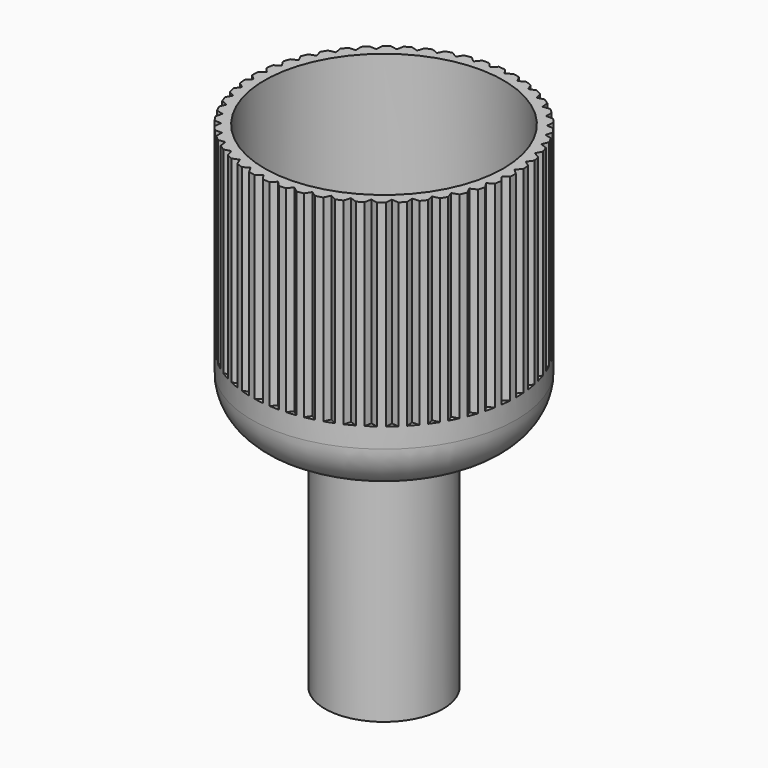
from build123d import *

# Parameters (mm, degrees)
F0_R     = 3.2385
F0_R_2   = 2.667
F1_DEPTH = 12.7
F2_R     = 7.2517
F3_DEPTH = 14.4272
F4_R     = 2.54
F5_R     = 6.5405
F6_DEPTH = 11.176
F8_DEPTH = 10.795


with BuildPart() as f1:
    # F0 (on Top) → F1 (new body)
    with BuildSketch(Plane.XY):
        Circle(F0_R)
        Circle(F0_R_2, mode=Mode.SUBTRACT)
    extrude(amount=F1_DEPTH)

    # F2 (on face) → F3 (join)
    with BuildSketch(Plane.XY.offset(12.7)):
        Circle(F2_R)
    extrude(amount=F3_DEPTH)

    # F4
    f4_edges = [f1.edges().sort_by_distance(p)[0] for p in [
        (-7.2517, 0, 12.7),
    ]]
    fillet(f4_edges, radius=F4_R)

    # F5 (on face) → F6 (cut)
    with BuildSketch(Plane.XY.offset(27.1272)):
        Circle(F5_R)
    extrude(amount=-F6_DEPTH, mode=Mode.SUBTRACT)

    # F7 (on face) → F8 (cut)
    with BuildSketch(Plane.XY.offset(27.1272)):
        with BuildLine():
            ThreePointArc((5.3146863935, 4.9336863935), (5.1277262451, 5.1277262451), (4.9336863935, 5.3146863935))
            Line((4.9336863935, 5.3146863935), (4.9336863935, 4.9336863935))
            Line((4.9336863935, 4.9336863935), (5.3146863935, 4.9336863935))
        make_face()
        with BuildLine():
            ThreePointArc((5.8911333729, 4.2286759716), (5.7299671032, 4.444618081), (5.5608896337, 4.6544236347))
            Line((5.5608896337, 4.6544236347), (5.5131376717, 4.2764279335))
            Line((5.5131376717, 4.2764279335), (5.8911333729, 4.2286759716))
        make_face()
        with BuildLine():
            ThreePointArc((4.6544236347, 5.5608896337), (4.444618081, 5.7299671032), (4.2286759716, 5.8911333729))
            Line((4.2286759716, 5.8911333729), (4.2764279335, 5.5131376717))
            Line((4.2764279335, 5.5131376717), (4.6544236347, 5.5608896337))
        make_face()
        with BuildLine():
            ThreePointArc((3.9207578349, 6.1003943225), (3.6914156346, 6.2418429572), (3.4569768035, 6.3746736599))
            Line((3.4569768035, 6.3746736599), (3.5517276505, 6.0056434755))
            Line((3.5517276505, 6.0056434755), (3.9207578349, 6.1003943225))
        make_face()
        with BuildLine():
            ThreePointArc((3.1252593418, 6.5436921486), (2.8799973585, 6.6552812191), (2.6307590461, 6.7576815352))
            Line((2.6307590461, 6.7576815352), (2.7710145007, 6.4034366941))
            Line((2.7710145007, 6.4034366941), (3.1252593418, 6.5436921486))
        make_face()
        with BuildLine():
            ThreePointArc((2.280473642, 6.8837920406), (2.0231598037, 6.9637617204), (1.7630526471, 7.0341167359))
            Line((1.7630526471, 7.0341167359), (1.9466007969, 6.7002438908))
            Line((1.9466007969, 6.7002438908), (2.280473642, 6.8837920406))
        make_face()
        with BuildLine():
            ThreePointArc((1.3997235106, 7.1153304199), (1.1344158101, 7.1624195395), (0.8675418546, 7.1996197136))
            Line((0.8675418546, 7.1996197136), (1.0914880357, 6.8913842387))
            Line((1.0914880357, 6.8913842387), (1.3997235106, 7.1153304199))
        make_face()
        with BuildLine():
            ThreePointArc((0.4968989032, 7.2346557879), (0.2277814016, 7.2481217238), (-0.0416505912, 7.2515803876))
            Line((-0.0416505912, 7.2515803876), (0.2191618562, 6.9738433406))
            Line((0.2191618562, 6.9738433406), (0.4968989032, 7.2346557879))
        make_face()
        with BuildLine():
            ThreePointArc((-0.4137620967, 7.2398863125), (-0.6824452557, 7.2195166987), (-0.9501861823, 7.1891793071))
            Line((-0.9501861823, 7.1891793071), (-0.6566206368, 6.946320767))
            Line((-0.6566206368, 6.946320767), (-0.4137620967, 7.2398863125))
        make_face()
        with BuildLine():
            ThreePointArc((-1.3178978211, 7.1309395049), (-1.5819093436, 7.0770555826), (-1.8437367696, 7.0134005742))
            Line((-1.8437367696, 7.0134005742), (-1.52204783, 6.8092505653))
            Line((-1.52204783, 6.8092505653), (-1.3178978211, 7.1309395049))
        make_face()
        with BuildLine():
            ThreePointArc((-2.2012495097, 6.9095335216), (-2.4564257762, 6.8229850722), (-2.7082105268, 6.7270163247))
            Line((-2.7082105268, 6.7270163247), (-2.3634714198, 6.5647944146))
            Line((-2.3634714198, 6.5647944146), (-2.2012495097, 6.9095335216))
        make_face()
        with BuildLine():
            ThreePointArc((-3.0498861785, 6.5791600671), (-3.292202907, 6.4613120115), (-3.5299741861, 6.3345430092))
            Line((-3.5299741861, 6.3345430092), (-3.1676216534, 6.2168075344))
            Line((-3.1676216534, 6.2168075344), (-3.0498861785, 6.5791600671))
        make_face()
        with BuildLine():
            ThreePointArc((-3.8504243204, 6.1450293281), (-4.0760600312, 5.9977402005), (-4.2960680438, 5.8421701664))
            Line((-4.2960680438, 5.8421701664), (-3.9218166012, 5.7707778856))
            Line((-3.9218166012, 5.7707778856), (-3.8504243204, 6.1450293281))
        make_face()
        with BuildLine():
            ThreePointArc((-4.5902389706, 5.6139878057), (-4.7956352538, 5.4395804436), (-4.9944103421, 5.2576628101))
            Line((-4.9944103421, 5.2576628101), (-4.6141621585, 5.2337396222))
            Line((-4.6141621585, 5.2337396222), (-4.5902389706, 5.6139878057))
        make_face()
        with BuildLine():
            ThreePointArc((-5.2576628101, 4.9944103421), (-5.4395804436, 4.7956352538), (-5.6139878057, 4.5902389706))
            Line((-5.6139878057, 4.5902389706), (-5.2337396222, 4.6141621585))
            Line((-5.2337396222, 4.6141621585), (-5.2576628101, 4.9944103421))
        make_face()
        with BuildLine():
            ThreePointArc((-5.8421701664, 4.2960680438), (-5.9977402005, 4.0760600312), (-6.1450293281, 3.8504243204))
            Line((-6.1450293281, 3.8504243204), (-5.7707778856, 3.9218166012))
            Line((-5.7707778856, 3.9218166012), (-5.8421701664, 4.2960680438))
        make_face()
        with BuildLine():
            ThreePointArc((-6.3345430092, 3.5299741861), (-6.4613120115, 3.292202907), (-6.5791600671, 3.0498861785))
            Line((-6.5791600671, 3.0498861785), (-6.2168075344, 3.1676216534))
            Line((-6.2168075344, 3.1676216534), (-6.3345430092, 3.5299741861))
        make_face()
        with BuildLine():
            ThreePointArc((-6.7270163247, 2.7082105268), (-6.8229850722, 2.4564257762), (-6.9095335216, 2.2012495097))
            Line((-6.9095335216, 2.2012495097), (-6.5647944146, 2.3634714198))
            Line((-6.5647944146, 2.3634714198), (-6.7270163247, 2.7082105268))
        make_face()
        with BuildLine():
            ThreePointArc((-7.0134005742, 1.8437367696), (-7.0770555826, 1.5819093436), (-7.1309395049, 1.3178978211))
            Line((-7.1309395049, 1.3178978211), (-6.8092505653, 1.52204783))
            Line((-6.8092505653, 1.52204783), (-7.0134005742, 1.8437367696))
        make_face()
        with BuildLine():
            ThreePointArc((-7.1891793071, 0.9501861823), (-7.2195166987, 0.6824452557), (-7.2398863125, 0.4137620967))
            Line((-7.2398863125, 0.4137620967), (-6.946320767, 0.6566206368))
            Line((-6.946320767, 0.6566206368), (-7.1891793071, 0.9501861823))
        make_face()
        with BuildLine():
            ThreePointArc((-7.2515803876, 0.0416505912), (-7.2481217238, -0.2277814016), (-7.2346557879, -0.4968989032))
            Line((-7.2346557879, -0.4968989032), (-6.9738433406, -0.2191618562))
            Line((-6.9738433406, -0.2191618562), (-7.2515803876, 0.0416505912))
        make_face()
        with BuildLine():
            ThreePointArc((-7.1996197136, -0.8675418546), (-7.1624195395, -1.1344158101), (-7.1153304199, -1.3997235106))
            Line((-7.1153304199, -1.3997235106), (-6.8913842387, -1.0914880357))
            Line((-6.8913842387, -1.0914880357), (-7.1996197136, -0.8675418546))
        make_face()
        with BuildLine():
            ThreePointArc((-7.0341167359, -1.7630526471), (-6.9637617204, -2.0231598037), (-6.8837920406, -2.280473642))
            Line((-6.8837920406, -2.280473642), (-6.7002438908, -1.9466007969))
            Line((-6.7002438908, -1.9466007969), (-7.0341167359, -1.7630526471))
        make_face()
        with BuildLine():
            ThreePointArc((-6.7576815352, -2.6307590461), (-6.6552812191, -2.8799973585), (-6.5436921486, -3.1252593418))
            Line((-6.5436921486, -3.1252593418), (-6.4034366941, -2.7710145007))
            Line((-6.4034366941, -2.7710145007), (-6.7576815352, -2.6307590461))
        make_face()
        with BuildLine():
            ThreePointArc((-6.3746736599, -3.4569768035), (-6.2418429572, -3.6914156346), (-6.1003943225, -3.9207578349))
            Line((-6.1003943225, -3.9207578349), (-6.0056434755, -3.5517276505))
            Line((-6.0056434755, -3.5517276505), (-6.3746736599, -3.4569768035))
        make_face()
        with BuildLine():
            ThreePointArc((-5.8911333729, -4.2286759716), (-5.7299671032, -4.444618081), (-5.5608896337, -4.6544236347))
            Line((-5.5608896337, -4.6544236347), (-5.5131376717, -4.2764279335))
            Line((-5.5131376717, -4.2764279335), (-5.8911333729, -4.2286759716))
        make_face()
        with BuildLine():
            ThreePointArc((-5.3146863935, -4.9336863935), (-5.1277262451, -5.1277262451), (-4.9336863935, -5.3146863935))
            Line((-4.9336863935, -5.3146863935), (-4.9336863935, -4.9336863935))
            Line((-4.9336863935, -4.9336863935), (-5.3146863935, -4.9336863935))
        make_face()
        with BuildLine():
            ThreePointArc((-4.6544236347, -5.5608896337), (-4.444618081, -5.7299671032), (-4.2286759716, -5.8911333729))
            Line((-4.2286759716, -5.8911333729), (-4.2764279335, -5.5131376717))
            Line((-4.2764279335, -5.5131376717), (-4.6544236347, -5.5608896337))
        make_face()
        with BuildLine():
            ThreePointArc((-3.9207578349, -6.1003943225), (-3.6914156346, -6.2418429572), (-3.4569768035, -6.3746736599))
            Line((-3.4569768035, -6.3746736599), (-3.5517276505, -6.0056434755))
            Line((-3.5517276505, -6.0056434755), (-3.9207578349, -6.1003943225))
        make_face()
        with BuildLine():
            ThreePointArc((-3.1252593418, -6.5436921486), (-2.8799973585, -6.6552812191), (-2.6307590461, -6.7576815352))
            Line((-2.6307590461, -6.7576815352), (-2.7710145007, -6.4034366941))
            Line((-2.7710145007, -6.4034366941), (-3.1252593418, -6.5436921486))
        make_face()
        with BuildLine():
            ThreePointArc((-2.280473642, -6.8837920406), (-2.0231598037, -6.9637617204), (-1.7630526471, -7.0341167359))
            Line((-1.7630526471, -7.0341167359), (-1.9466007969, -6.7002438908))
            Line((-1.9466007969, -6.7002438908), (-2.280473642, -6.8837920406))
        make_face()
        with BuildLine():
            ThreePointArc((-1.3997235106, -7.1153304199), (-1.1344158101, -7.1624195395), (-0.8675418546, -7.1996197136))
            Line((-0.8675418546, -7.1996197136), (-1.0914880357, -6.8913842387))
            Line((-1.0914880357, -6.8913842387), (-1.3997235106, -7.1153304199))
        make_face()
        with BuildLine():
            ThreePointArc((-0.4968989032, -7.2346557879), (-0.2277814016, -7.2481217238), (0.0416505912, -7.2515803876))
            Line((0.0416505912, -7.2515803876), (-0.2191618562, -6.9738433406))
            Line((-0.2191618562, -6.9738433406), (-0.4968989032, -7.2346557879))
        make_face()
        with BuildLine():
            ThreePointArc((0.4137620967, -7.2398863125), (0.6824452557, -7.2195166987), (0.9501861823, -7.1891793071))
            Line((0.9501861823, -7.1891793071), (0.6566206368, -6.946320767))
            Line((0.6566206368, -6.946320767), (0.4137620967, -7.2398863125))
        make_face()
        with BuildLine():
            ThreePointArc((1.3178978211, -7.1309395049), (1.5819093436, -7.0770555826), (1.8437367696, -7.0134005742))
            Line((1.8437367696, -7.0134005742), (1.52204783, -6.8092505653))
            Line((1.52204783, -6.8092505653), (1.3178978211, -7.1309395049))
        make_face()
        with BuildLine():
            ThreePointArc((2.2012495097, -6.9095335216), (2.4564257762, -6.8229850722), (2.7082105268, -6.7270163247))
            Line((2.7082105268, -6.7270163247), (2.3634714198, -6.5647944146))
            Line((2.3634714198, -6.5647944146), (2.2012495097, -6.9095335216))
        make_face()
        with BuildLine():
            ThreePointArc((3.0498861785, -6.5791600671), (3.292202907, -6.4613120115), (3.5299741861, -6.3345430092))
            Line((3.5299741861, -6.3345430092), (3.1676216534, -6.2168075344))
            Line((3.1676216534, -6.2168075344), (3.0498861785, -6.5791600671))
        make_face()
        with BuildLine():
            ThreePointArc((3.8504243204, -6.1450293281), (4.0760600312, -5.9977402005), (4.2960680438, -5.8421701664))
            Line((4.2960680438, -5.8421701664), (3.9218166012, -5.7707778856))
            Line((3.9218166012, -5.7707778856), (3.8504243204, -6.1450293281))
        make_face()
        with BuildLine():
            ThreePointArc((4.5902389706, -5.6139878057), (4.7956352538, -5.4395804436), (4.9944103421, -5.2576628101))
            Line((4.9944103421, -5.2576628101), (4.6141621585, -5.2337396222))
            Line((4.6141621585, -5.2337396222), (4.5902389706, -5.6139878057))
        make_face()
        with BuildLine():
            ThreePointArc((5.2576628101, -4.9944103421), (5.4395804436, -4.7956352538), (5.6139878057, -4.5902389706))
            Line((5.6139878057, -4.5902389706), (5.2337396222, -4.6141621585))
            Line((5.2337396222, -4.6141621585), (5.2576628101, -4.9944103421))
        make_face()
        with BuildLine():
            ThreePointArc((5.8421701664, -4.2960680438), (5.9977402005, -4.0760600312), (6.1450293281, -3.8504243204))
            Line((6.1450293281, -3.8504243204), (5.7707778856, -3.9218166012))
            Line((5.7707778856, -3.9218166012), (5.8421701664, -4.2960680438))
        make_face()
        with BuildLine():
            ThreePointArc((6.3345430092, -3.5299741861), (6.4613120115, -3.292202907), (6.5791600671, -3.0498861785))
            Line((6.5791600671, -3.0498861785), (6.2168075344, -3.1676216534))
            Line((6.2168075344, -3.1676216534), (6.3345430092, -3.5299741861))
        make_face()
        with BuildLine():
            ThreePointArc((6.7270163247, -2.7082105268), (6.8229850722, -2.4564257762), (6.9095335216, -2.2012495097))
            Line((6.9095335216, -2.2012495097), (6.5647944146, -2.3634714198))
            Line((6.5647944146, -2.3634714198), (6.7270163247, -2.7082105268))
        make_face()
        with BuildLine():
            ThreePointArc((7.0134005742, -1.8437367696), (7.0770555826, -1.5819093436), (7.1309395049, -1.3178978211))
            Line((7.1309395049, -1.3178978211), (6.8092505653, -1.52204783))
            Line((6.8092505653, -1.52204783), (7.0134005742, -1.8437367696))
        make_face()
        with BuildLine():
            ThreePointArc((7.1891793071, -0.9501861823), (7.2195166987, -0.6824452557), (7.2398863125, -0.4137620967))
            Line((7.2398863125, -0.4137620967), (6.946320767, -0.6566206368))
            Line((6.946320767, -0.6566206368), (7.1891793071, -0.9501861823))
        make_face()
        with BuildLine():
            ThreePointArc((7.2515803876, -0.0416505912), (7.2481217238, 0.2277814016), (7.2346557879, 0.4968989032))
            Line((7.2346557879, 0.4968989032), (6.9738433406, 0.2191618562))
            Line((6.9738433406, 0.2191618562), (7.2515803876, -0.0416505912))
        make_face()
        with BuildLine():
            ThreePointArc((7.1996197136, 0.8675418546), (7.1624195395, 1.1344158101), (7.1153304199, 1.3997235106))
            Line((7.1153304199, 1.3997235106), (6.8913842387, 1.0914880357))
            Line((6.8913842387, 1.0914880357), (7.1996197136, 0.8675418546))
        make_face()
        with BuildLine():
            ThreePointArc((7.0341167359, 1.7630526471), (6.9637617204, 2.0231598037), (6.8837920406, 2.280473642))
            Line((6.8837920406, 2.280473642), (6.7002438908, 1.9466007969))
            Line((6.7002438908, 1.9466007969), (7.0341167359, 1.7630526471))
        make_face()
        with BuildLine():
            ThreePointArc((6.7576815352, 2.6307590461), (6.6552812191, 2.8799973585), (6.5436921486, 3.1252593418))
            Line((6.5436921486, 3.1252593418), (6.4034366941, 2.7710145007))
            Line((6.4034366941, 2.7710145007), (6.7576815352, 2.6307590461))
        make_face()
        with BuildLine():
            ThreePointArc((6.3746736599, 3.4569768035), (6.2418429572, 3.6914156346), (6.1003943225, 3.9207578349))
            Line((6.1003943225, 3.9207578349), (6.0056434755, 3.5517276505))
            Line((6.0056434755, 3.5517276505), (6.3746736599, 3.4569768035))
        make_face()
    extrude(amount=-F8_DEPTH, mode=Mode.SUBTRACT)


solid = f1.part
